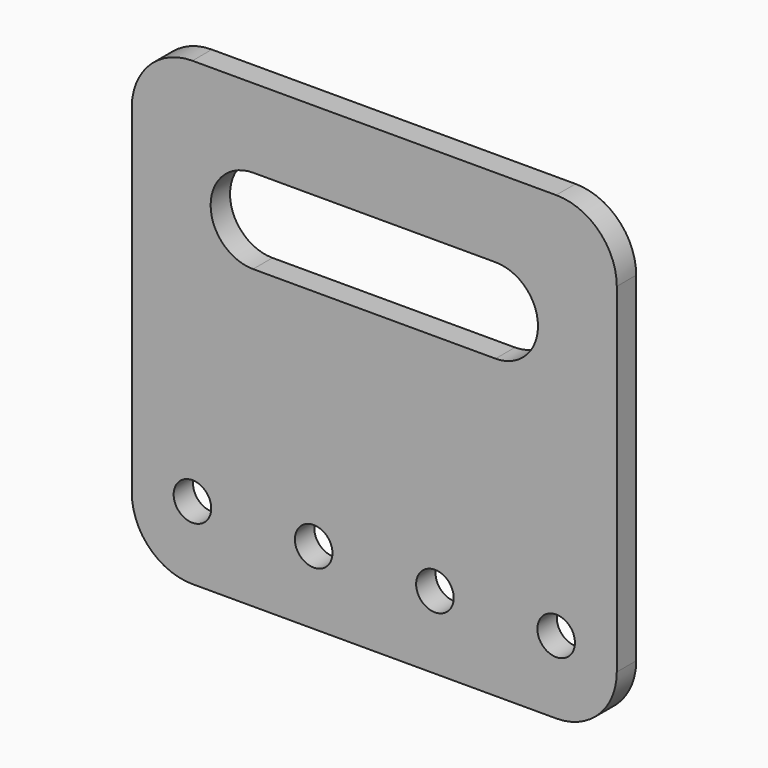
from build123d import *

# Parameters (mm, degrees)
F0_W     = 200
F0_H     = 190
F1_DEPTH = 10
F3_D     = 15.5
F4_R     = 25


with BuildPart() as f1:
    # F0 (on Front) → F1 (new body)
    with BuildSketch(Plane.XZ):
        Rectangle(F0_W, F0_H)
        with BuildLine():
            ThreePointArc((-50, 27.5), (-67.5, 45), (-50, 62.5))
            Line((-50, 62.5), (50, 62.5))
            ThreePointArc((50, 62.5), (67.5, 45), (50, 27.5))
            Line((50, 27.5), (-50, 27.5))
        make_face(mode=Mode.SUBTRACT)
    extrude(amount=F1_DEPTH)

    # F3 (through all)
    with Locations(Plane.XZ.offset(10)):
        with Locations((-75, -65), (-25, -65), (25, -65), (75, -65)):
            Hole(F3_D / 2)

    # F4
    f4_edges = [f1.edges().sort_by_distance(p)[0] for p in [
        (100, -5, 95),
        (-100, -5, 95),
        (100, -5, -95),
        (-100, -5, -95),
    ]]
    fillet(f4_edges, radius=F4_R)


solid = f1.part
